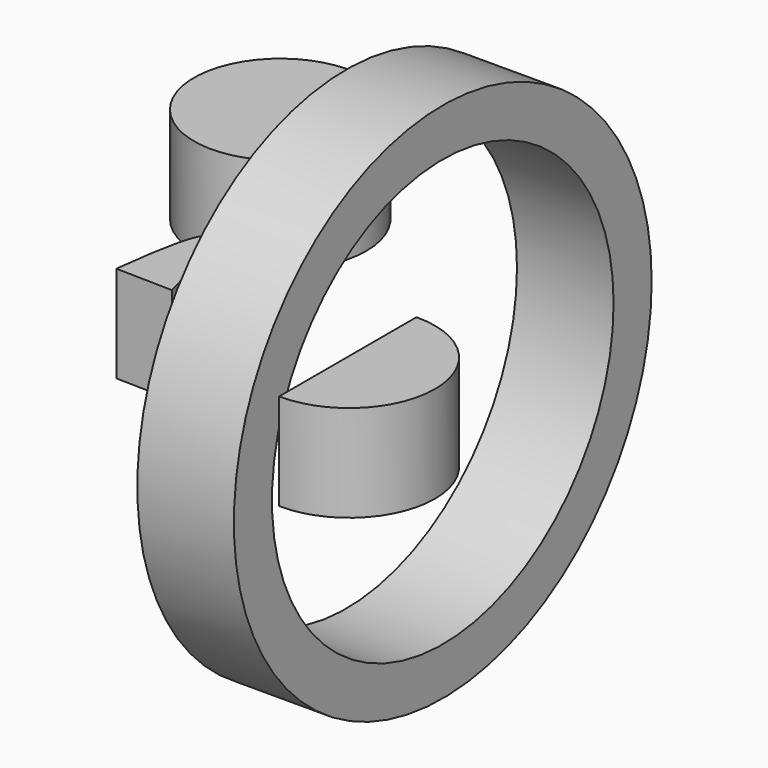
from build123d import *

# Parameters (mm, degrees)
F0_R     = 22.6423411402
F1_DEPTH = 25.4
F2_R     = 68.6585459697
F2_R_2   = 56.1403072128
F3_DEPTH = 25.4


with BuildPart() as f1:
    # F0 (on Top) → F1 (new body)
    with BuildSketch(Plane.XY):
        with Locations((-51.4017753303, 42.5634607673)):
            Circle(F0_R)
    extrude(amount=F1_DEPTH)


with BuildPart() as f1b:
    # F0 (on Top) → F1, piece 2 (new body)
    with BuildSketch(Plane.XY):
        with BuildLine():
            add(Edge.make_bspline(
                [(-33.4526954697, -33.7300439706), (-31.8902508459, -20.6226160201), (-28.2703961578, -0.8125506468), (-22.0113989405, -20.5386821895), (-18.603615844, -34.0655751986)],
                knots=[0.1711107042, 0.1711107042, 0.1711107042, 0.1711107042, 0.4930081966, 0.8238107987, 0.8238107987, 0.8238107987, 0.8238107987], degree=3))
            Line((-33.4526954697, -33.7300439706), (-18.603615844, -34.0655751986))
        make_face()
    extrude(amount=F1_DEPTH)


with BuildPart() as f1c:
    # F0 (on Top) → F1, piece 3 (new body)
    with BuildSketch(Plane.XY):
        with BuildLine():
            ThreePointArc((28.1430538744, -57.2164542973), (51.083158057, -34.6554946154), (28.1430538744, -12.0945349336))
            Line((28.1430538744, -12.0945349336), (28.1430538744, -57.2164542973))
        make_face()
    extrude(amount=F1_DEPTH)


with BuildPart() as f3:
    # F2 (on Right) → F3 (new body)
    with BuildSketch(Plane.YZ):
        Circle(F2_R)
        Circle(F2_R_2, mode=Mode.SUBTRACT)
    extrude(amount=F3_DEPTH)


solid = Compound([f1.part, f1b.part, f1c.part, f3.part])
